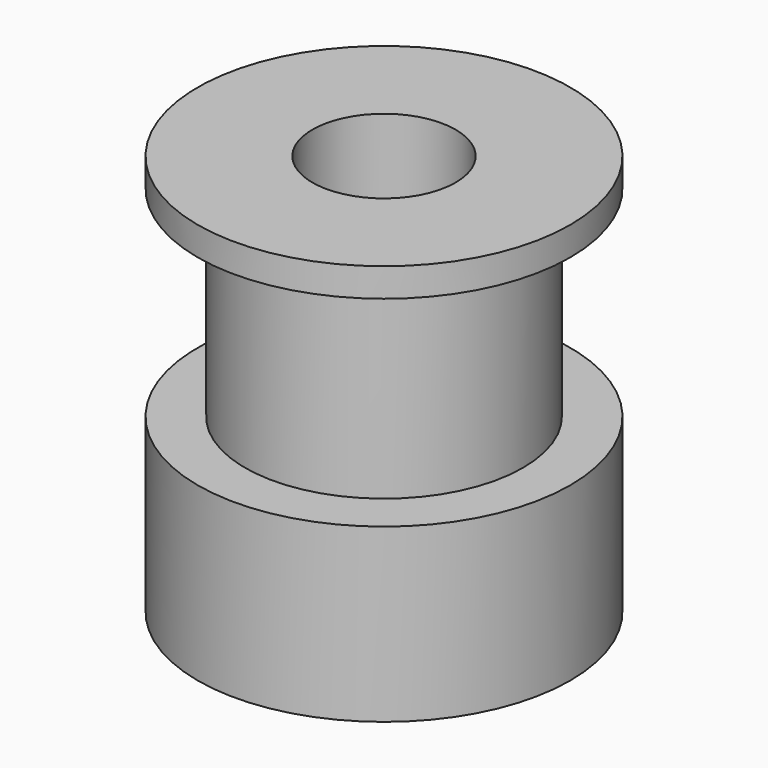
from build123d import *


with BuildPart() as part:
    # Sketch (on XZ_Plane of Origin) → Revolution (revolve)
    with BuildSketch(Plane.XZ):
        Polygon((2.5, 0), (6.5, 0), (6.5, 6), (4.85, 6), (4.85, 13), (6.5, 13), (6.5, 14), (2.5, 14), align=None)
    revolve(axis=Axis((0, 0, 0), (0, 0, 1)))


solid = part.part
